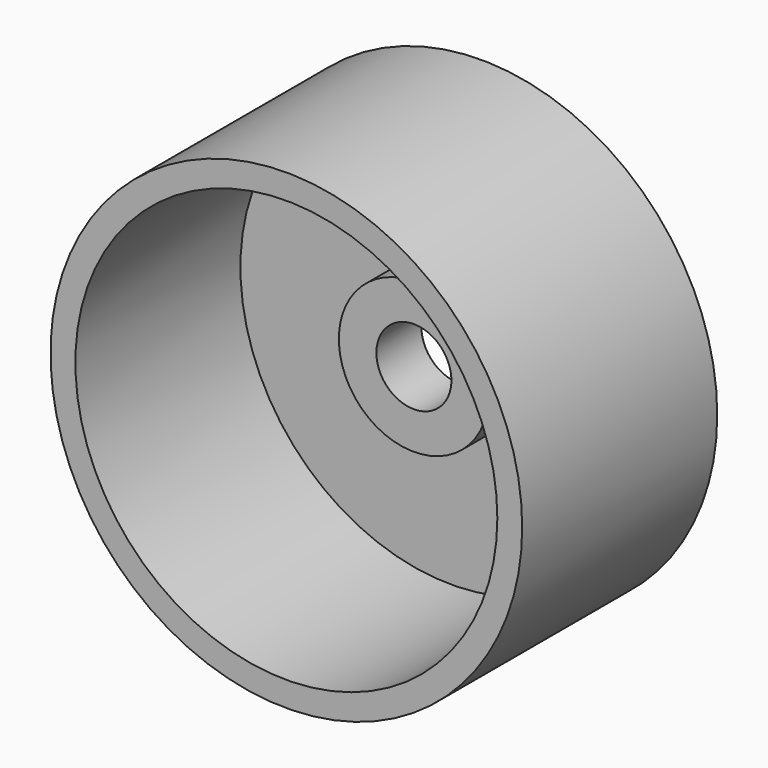
from build123d import *

# Parameters (mm, degrees)
F0_R     = 25.15
F1_DEPTH = 4
F2_R     = 25.15
F2_R_2   = 22.5
F3_DEPTH = 22
F4_R     = 8
F5_DEPTH = 5
F6_R     = 4
F7_DEPTH = 25
F8_R     = 8
F9_DEPTH = 3


with BuildPart() as f1:
    # F0 (on Front) → F1 (new body)
    with BuildSketch(Plane.XZ):
        Circle(F0_R)
    extrude(amount=F1_DEPTH)

    # F2 (on face) → F3 (join)
    with BuildSketch(Plane.XZ.offset(4)):
        Circle(F2_R)
        Circle(F2_R_2, mode=Mode.SUBTRACT)
    extrude(amount=F3_DEPTH)

    # F4 (on face) → F5 (join)
    with BuildSketch(Plane.XZ.offset(4)):
        Circle(F4_R)
    extrude(amount=F5_DEPTH)

    # F6 (on face) → F7 (cut)
    with BuildSketch(Plane(origin=(0, 0, 0), x_dir=(-1, 0, 0), z_dir=(0, 1, 0))):
        Circle(F6_R)
    extrude(amount=-F7_DEPTH, mode=Mode.SUBTRACT)

    # F8 (on face) → F9 (cut)
    with BuildSketch(Plane(origin=(0, 0, 0), x_dir=(-1, 0, 0), z_dir=(0, 1, 0))):
        Circle(F8_R)
    extrude(amount=-F9_DEPTH, mode=Mode.SUBTRACT)


solid = f1.part
